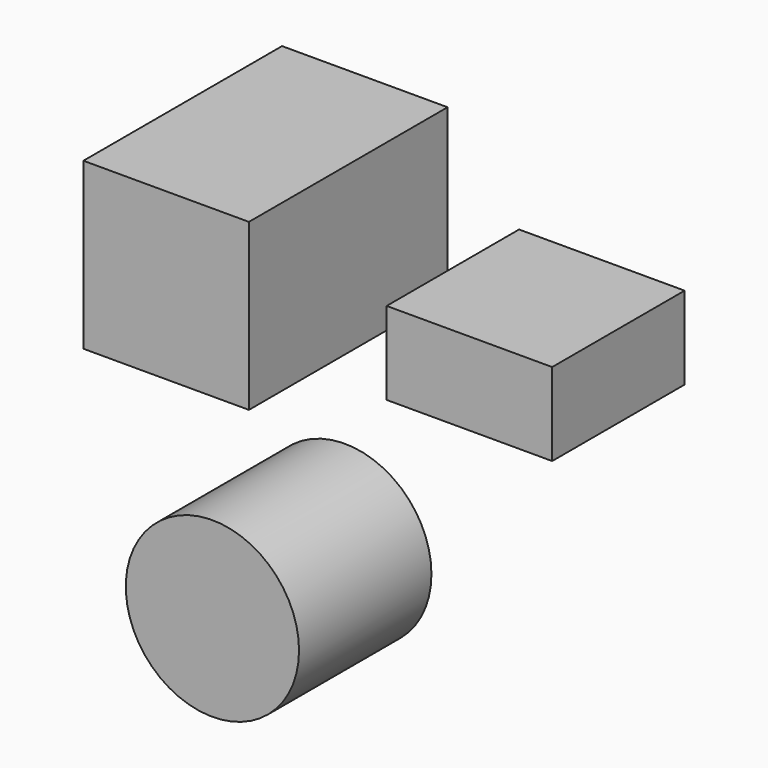
from build123d import *

# Parameters (mm, degrees)
F0_W      = 50.8
F0_H      = 50.8
F3_DEPTH  = 25.4
F1_W      = 50.8
F1_H      = 25.4
F4_DEPTH  = 50.8
F2_R      = 26.583063
F5_DEPTH  = 50.8
F3_FACE_W = 50.8
F3_FACE_H = 50.8
F6_DEPTH  = 50.8


with BuildPart() as f3:
    # F0 (on Front) → F3 (new body)
    with BuildSketch(Plane.XZ):
        with Locations((-36.490289, 62.014746)):
            Rectangle(F0_W, F0_H)
    extrude(amount=F3_DEPTH)

    # F3_face (on face) → F6 (join)
    with BuildSketch(Plane(origin=(-36.490289, -25.4, 62.014746), x_dir=(1, 0, 0), z_dir=(0, -1, 0))):
        Rectangle(F3_FACE_W, F3_FACE_H)
    extrude(amount=F6_DEPTH)


with BuildPart() as f4:
    # F1 (on Front) → F4 (new body)
    with BuildSketch(Plane.XZ):
        with Locations((36.255861, 48.821618)):
            Rectangle(F1_W, F1_H)
    extrude(amount=F4_DEPTH)


with BuildPart() as f5:
    # F2 (on Front) → F5 (new body)
    with BuildSketch(Plane.XZ):
        with Locations((-42.617988, -40.319465)):
            Circle(F2_R)
    extrude(amount=F5_DEPTH)


solid = Compound([f3.part, f4.part, f5.part])
